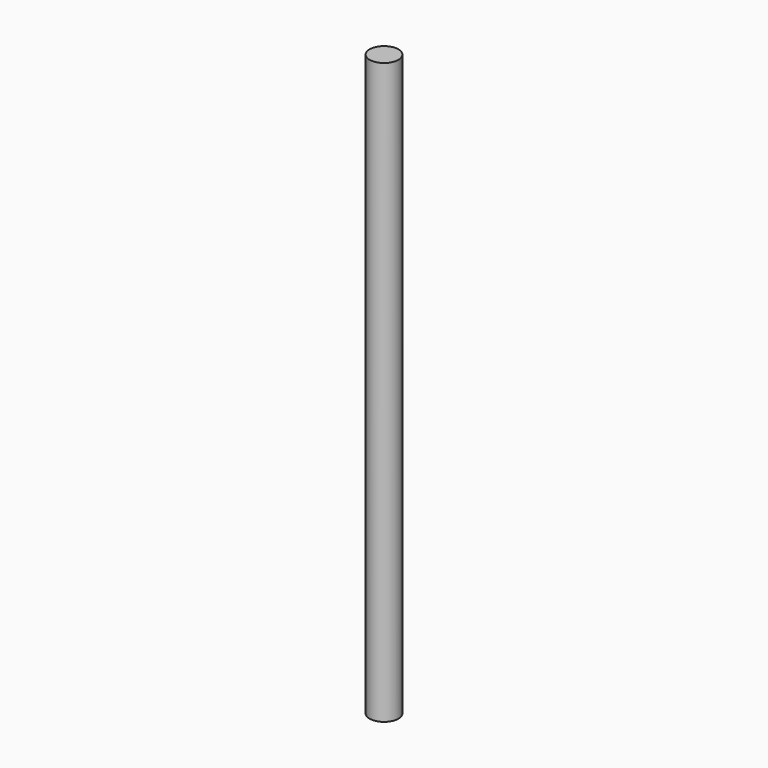
from build123d import *

# Parameters (mm, degrees)
F1_R     = 15.08125
F2_DEPTH = 609.6


with BuildPart() as f2:
    # F1 (on offset) → F2 (new body)
    with BuildSketch(Plane.XY.offset(31.75)):
        Circle(F1_R)
    extrude(amount=-F2_DEPTH)


solid = f2.part
